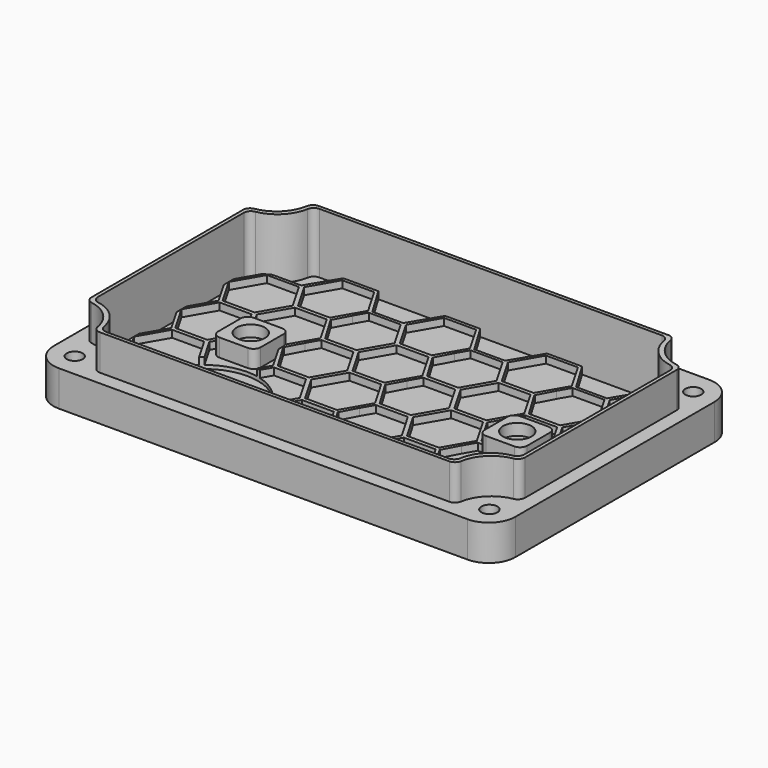
from build123d import *

# Parameters (mm, degrees)
PAD003_DEPTH              = 10
POCKET005_DEPTH           = 7
HOLE_D                    = 4.5
HOLE_CBORE_D              = 10
HOLE_CBORE_DEPTH          = 5.2
PAD004_DEPTH              = 10
PAD_DEPTH                 = 2
PAD_LINEARPATTERN_2_DEPTH = 2
PAD_LINEARPATTERN_3_DEPTH = 2
PAD_LINEARPATTERN_4_DEPTH = 2
LINEARPATTERN001_COUNT    = 4
LINEARPATTERN001_PITCH    = 16.666667
SKETCH014_R               = 6.05
HOLE001_DEPTH             = 25
PAD005_DEPTH              = 5
POCKET007_DEPTH           = 3
HOLE002_D                 = 4.5
HOLE002_DEPTH             = 8
HOLE002_CBORE_D           = 8
HOLE002_CBORE_DEPTH       = 3.2
HOLE002_TIPS_R            = 2.25
SKETCH_R                  = 15
POCKET_DEPTH              = 3


with BuildPart() as part:
    # Sketch011 (on ShapeBinder) → Pad003 (new body)
    with BuildSketch(Plane(origin=(0, 0, 0), x_dir=(1, 0, 0), z_dir=(0, 0, -1))):
        with BuildLine():
            Line((7.5, 0), (122.5, 0))
            ThreePointArc((130, -7.5), (127.803301, -2.196699), (122.5, 0))
            Line((130, -7.5), (130, -77.5))
            ThreePointArc((122.5, -85), (127.803301, -82.803301), (130, -77.5))
            Line((122.5, -85), (7.5, -85))
            ThreePointArc((0, -77.5), (2.196699, -82.803301), (7.5, -85))
            Line((0, -77.5), (0, -7.5))
            ThreePointArc((7.5, 0), (2.196699, -2.196699), (0, -7.5))
        make_face()
    extrude(amount=PAD003_DEPTH)

    # Sketch010 (on Face1 of ShapeBinder) → Pocket005 (cut)
    with BuildSketch(Plane(origin=(0, 0, 0), x_dir=(1, 0, 0), z_dir=(0, 0, -1))):
        with BuildLine():
            ThreePointArc((14.860133, -78.333333), (12.071068, -72.928932), (6.666667, -70.139867))
            ThreePointArc((5, -68.16784), (5.472475, -69.458835), (6.666667, -70.139867))
            Line((5, -16.83216), (5, -68.16784))
            ThreePointArc((6.666667, -14.860133), (5.472475, -15.541165), (5, -16.83216))
            ThreePointArc((6.666667, -14.860133), (12.071068, -12.071068), (14.860133, -6.666667))
            ThreePointArc((16.83216, -5), (15.541165, -5.472475), (14.860133, -6.666667))
            Line((113.16784, -5), (16.83216, -5))
            ThreePointArc((115.139867, -6.666667), (114.458835, -5.472475), (113.16784, -5))
            ThreePointArc((115.139867, -6.666667), (117.928932, -12.071068), (123.333333, -14.860133))
            ThreePointArc((125, -16.83216), (124.527525, -15.541165), (123.333333, -14.860133))
            Line((125, -68.16784), (125, -16.83216))
            ThreePointArc((123.333333, -70.139867), (124.527525, -69.458835), (125, -68.16784))
            ThreePointArc((123.333333, -70.139867), (117.928932, -72.928932), (115.139867, -78.333333))
            ThreePointArc((113.16784, -80), (114.458835, -79.527525), (115.139867, -78.333333))
            Line((16.83216, -80), (113.16784, -80))
            ThreePointArc((14.860133, -78.333333), (15.541165, -79.527525), (16.83216, -80))
        make_face()
    extrude(amount=POCKET005_DEPTH, mode=Mode.SUBTRACT)

    # Hole (through all)
    with Locations(Plane(origin=(0, 0, -10), x_dir=(1, 0, 0), z_dir=(0, 0, -1))):
        with Locations((6.651462, -6.651482), (123.348538, -6.651482), (123.348538, -78.348518), (6.651462, -78.348518)):
            CounterBoreHole(HOLE_D / 2, HOLE_CBORE_D / 2, HOLE_CBORE_DEPTH)

    # Sketch013 (on Face1 of ShapeBinder) → Pad004 (join)
    with BuildSketch(Plane(origin=(0, 0, 0), x_dir=(1, 0, 0), z_dir=(0, 0, -1))):
        with BuildLine():
            ThreePointArc((13.860133, -79.333333), (11.071068, -73.928932), (5.666667, -71.139867))
            ThreePointArc((4, -69.16784), (4.472475, -70.458835), (5.666667, -71.139867))
            Line((4, -15.83216), (4, -69.16784))
            ThreePointArc((5.666667, -13.860133), (4.472475, -14.541165), (4, -15.83216))
            ThreePointArc((5.666667, -13.860133), (11.071068, -11.071068), (13.860133, -5.666667))
            ThreePointArc((15.83216, -4), (14.541165, -4.472475), (13.860133, -5.666667))
            Line((114.16784, -4), (15.83216, -4))
            ThreePointArc((116.139867, -5.666667), (115.458835, -4.472475), (114.16784, -4))
            ThreePointArc((116.139867, -5.666667), (118.928932, -11.071068), (124.333333, -13.860133))
            ThreePointArc((126, -15.83216), (125.527525, -14.541165), (124.333333, -13.860133))
            Line((126, -69.16784), (126, -15.83216))
            ThreePointArc((124.333333, -71.139867), (125.527525, -70.458835), (126, -69.16784))
            ThreePointArc((124.333333, -71.139867), (118.928932, -73.928932), (116.139867, -79.333333))
            ThreePointArc((114.16784, -81), (115.458835, -80.527525), (116.139867, -79.333333))
            Line((15.83216, -81), (114.16784, -81))
            ThreePointArc((13.860133, -79.333333), (14.541165, -80.527525), (15.83216, -81))
        make_face()
        with BuildLine():
            ThreePointArc((14.860133, -78.333333), (12.071068, -72.928932), (6.666667, -70.139867))
            ThreePointArc((5, -68.16784), (5.472475, -69.458835), (6.666667, -70.139867))
            Line((5, -16.83216), (5, -68.16784))
            ThreePointArc((6.666667, -14.860133), (5.472475, -15.541165), (5, -16.83216))
            ThreePointArc((6.666667, -14.860133), (12.071068, -12.071068), (14.860133, -6.666667))
            ThreePointArc((16.83216, -5), (15.541165, -5.472475), (14.860133, -6.666667))
            Line((113.16784, -5), (16.83216, -5))
            ThreePointArc((115.139867, -6.666667), (114.458835, -5.472475), (113.16784, -5))
            ThreePointArc((115.139867, -6.666667), (117.928932, -12.071068), (123.333333, -14.860133))
            ThreePointArc((125, -16.83216), (124.527525, -15.541165), (123.333333, -14.860133))
            Line((125, -68.16784), (125, -16.83216))
            ThreePointArc((123.333333, -70.139867), (124.527525, -69.458835), (125, -68.16784))
            ThreePointArc((123.333333, -70.139867), (117.928932, -72.928932), (115.139867, -78.333333))
            ThreePointArc((113.16784, -80), (114.458835, -79.527525), (115.139867, -78.333333))
            Line((16.83216, -80), (113.16784, -80))
            ThreePointArc((14.860133, -78.333333), (15.541165, -79.527525), (16.83216, -80))
        make_face(mode=Mode.SUBTRACT)
    extrude(amount=-PAD004_DEPTH)

    # Sketch056 (on Face27 of Pocket005) → Pad (join)
    with BuildSketch(Plane.XY.offset(-7)):
        Polygon((18.484886, 71.555635), (9, 71.555635), (4, 62.895381), (9, 54.235127), (19, 54.235127), (23.999938, 62.860274), (33.850199, 62.860274), (38.478193, 71.555635), (33.40667, 80), (23.556409, 80), align=None)
        Polygon((5, 62.895381), (9.5, 55.101153), (18.5, 55.101153), (23, 62.895381), (18.5, 70.68961), (9.5, 70.68961), align=None, mode=Mode.SUBTRACT)
        Polygon((19.48154, 71.296949), (23.98154, 63.502721), (32.98154, 63.502721), (37.48154, 71.296949), (32.98154, 79.091178), (23.98154, 79.091178), align=None, mode=Mode.SUBTRACT)
    pad = extrude(amount=PAD_DEPTH)

    # Sketch056 LinearPattern 2 → Pad LinearPattern 2 (add)
    with BuildSketch(Plane(origin=(28.666667, 0, -7), x_dir=(1, 0, 0), z_dir=(0, 0, 1))):
        Polygon((18.484886, 71.555635), (9, 71.555635), (4, 62.895381), (9, 54.235127), (19, 54.235127), (23.999938, 62.860274), (33.850199, 62.860274), (38.478193, 71.555635), (33.40667, 80), (23.556409, 80), align=None)
        Polygon((5, 62.895381), (9.5, 55.101153), (18.5, 55.101153), (23, 62.895381), (18.5, 70.68961), (9.5, 70.68961), align=None, mode=Mode.SUBTRACT)
        Polygon((19.48154, 71.296949), (23.98154, 63.502721), (32.98154, 63.502721), (37.48154, 71.296949), (32.98154, 79.091178), (23.98154, 79.091178), align=None, mode=Mode.SUBTRACT)
    pad_linearpattern_2 = extrude(amount=PAD_LINEARPATTERN_2_DEPTH)

    # Sketch056 LinearPattern 3 → Pad LinearPattern 3 (add)
    with BuildSketch(Plane(origin=(57.333333, 0, -7), x_dir=(1, 0, 0), z_dir=(0, 0, 1))):
        Polygon((18.484886, 71.555635), (9, 71.555635), (4, 62.895381), (9, 54.235127), (19, 54.235127), (23.999938, 62.860274), (33.850199, 62.860274), (38.478193, 71.555635), (33.40667, 80), (23.556409, 80), align=None)
        Polygon((5, 62.895381), (9.5, 55.101153), (18.5, 55.101153), (23, 62.895381), (18.5, 70.68961), (9.5, 70.68961), align=None, mode=Mode.SUBTRACT)
        Polygon((19.48154, 71.296949), (23.98154, 63.502721), (32.98154, 63.502721), (37.48154, 71.296949), (32.98154, 79.091178), (23.98154, 79.091178), align=None, mode=Mode.SUBTRACT)
    pad_linearpattern_3 = extrude(amount=PAD_LINEARPATTERN_3_DEPTH)

    # Sketch056 LinearPattern 4 → Pad LinearPattern 4 (add)
    with BuildSketch(Plane(origin=(86, 0, -7), x_dir=(1, 0, 0), z_dir=(0, 0, 1))):
        Polygon((18.484886, 71.555635), (9, 71.555635), (4, 62.895381), (9, 54.235127), (19, 54.235127), (23.999938, 62.860274), (33.850199, 62.860274), (38.478193, 71.555635), (33.40667, 80), (23.556409, 80), align=None)
        Polygon((5, 62.895381), (9.5, 55.101153), (18.5, 55.101153), (23, 62.895381), (18.5, 70.68961), (9.5, 70.68961), align=None, mode=Mode.SUBTRACT)
        Polygon((19.48154, 71.296949), (23.98154, 63.502721), (32.98154, 63.502721), (37.48154, 71.296949), (32.98154, 79.091178), (23.98154, 79.091178), align=None, mode=Mode.SUBTRACT)
    pad_linearpattern_4 = extrude(amount=PAD_LINEARPATTERN_4_DEPTH)

    # LinearPattern001: Pad, Pad LinearPattern 2, Pad LinearPattern 3, Pad LinearPattern 4 ×4
    with Locations(*[(0, -i * LINEARPATTERN001_PITCH, 0) for i in range(1, LINEARPATTERN001_COUNT)]):
        add(pad)
        add(pad_linearpattern_2)
        add(pad_linearpattern_3)
        add(pad_linearpattern_4)

    # Sketch014 (on Face72 of Pad004) → Hole001 (cut)
    with BuildSketch(Plane.XY.offset(-7)):
        with Locations((32.5, 20)):
            Circle(SKETCH014_R)
    extrude(amount=-HOLE001_DEPTH, mode=Mode.SUBTRACT)

    # Sketch015 (on Face27 of Pocket005) → Pad005 (join)
    with BuildSketch(Plane.XY.offset(-7)):
        with BuildLine():
            ThreePointArc((23.5, 48.5), (22.085786, 47.914214), (21.5, 46.5))
            Line((21.5, 38.5), (21.5, 46.5))
            ThreePointArc((21.5, 38.5), (22.085786, 37.085786), (23.5, 36.5))
            Line((31.5, 36.5), (23.5, 36.5))
            ThreePointArc((31.5, 36.5), (32.914214, 37.085786), (33.5, 38.5))
            Line((33.5, 46.5), (33.5, 38.5))
            ThreePointArc((33.5, 46.5), (32.914214, 47.914214), (31.5, 48.5))
            Line((23.5, 48.5), (31.5, 48.5))
        make_face()
        with BuildLine():
            ThreePointArc((98.5, 48.5), (97.085786, 47.914214), (96.5, 46.5))
            Line((96.5, 38.5), (96.5, 46.5))
            ThreePointArc((96.5, 38.5), (97.085786, 37.085786), (98.5, 36.5))
            Line((106.5, 36.5), (98.5, 36.5))
            ThreePointArc((106.5, 36.5), (107.914214, 37.085786), (108.5, 38.5))
            Line((108.5, 46.5), (108.5, 38.5))
            ThreePointArc((108.5, 46.5), (107.914214, 47.914214), (106.5, 48.5))
            Line((98.5, 48.5), (106.5, 48.5))
        make_face()
    extrude(amount=PAD005_DEPTH)

    # Sketch017 (on Face352 of Pad005) → Pocket007 (cut)
    with BuildSketch(Plane(origin=(0, 0, -10), x_dir=(1, 0, 0), z_dir=(0, 0, -1))):
        with BuildLine():
            ThreePointArc((24.5, -37.5), (23.085786, -38.085786), (22.5, -39.5))
            Line((22.5, -45.5), (22.5, -39.5))
            ThreePointArc((22.5, -45.5), (23.085786, -46.914214), (24.5, -47.5))
            Line((30.5, -47.5), (24.5, -47.5))
            ThreePointArc((30.5, -47.5), (31.914214, -46.914214), (32.5, -45.5))
            Line((32.5, -39.5), (32.5, -45.5))
            ThreePointArc((32.5, -39.5), (31.914214, -38.085786), (30.5, -37.5))
            Line((24.5, -37.5), (30.5, -37.5))
        make_face()
        with BuildLine():
            ThreePointArc((99.5, -37.5), (98.085786, -38.085786), (97.5, -39.5))
            Line((97.5, -45.5), (97.5, -39.5))
            ThreePointArc((97.5, -45.5), (98.085786, -46.914214), (99.5, -47.5))
            Line((105.5, -47.5), (99.5, -47.5))
            ThreePointArc((105.5, -47.5), (106.914214, -46.914214), (107.5, -45.5))
            Line((107.5, -39.5), (107.5, -45.5))
            ThreePointArc((107.5, -39.5), (106.914214, -38.085786), (105.5, -37.5))
            Line((99.5, -37.5), (105.5, -37.5))
        make_face()
    extrude(amount=-POCKET007_DEPTH, mode=Mode.SUBTRACT)

    # Hole002
    with Locations(Plane.XY.offset(-2)):
        with Locations((102.5, 42.5), (27.5, 42.5)):
            CounterBoreHole(HOLE002_D / 2, HOLE002_CBORE_D / 2, HOLE002_CBORE_DEPTH, depth=HOLE002_DEPTH)

    # Hole002 tips → Hole002 tip 1 section 0
    with BuildSketch(Plane.XY.offset(-10), mode=Mode.PRIVATE) as hole002_tip_1_s0:
        with Locations((102.5, 42.5)):
            Circle(HOLE002_TIPS_R)
    loft([hole002_tip_1_s0.sketch, Vertex(102.5, 42.5, -11.351936)], mode=Mode.SUBTRACT)

    # Hole002 tips → Hole002 tip 2 section 0
    with BuildSketch(Plane.XY.offset(-10), mode=Mode.PRIVATE) as hole002_tip_2_s0:
        with Locations((27.5, 42.5)):
            Circle(HOLE002_TIPS_R)
    loft([hole002_tip_2_s0.sketch, Vertex(27.5, 42.5, -11.351936)], mode=Mode.SUBTRACT)

    # Sketch (on Face4 of Hole002) → Pocket (cut)
    with BuildSketch(Plane.XY.offset(-5)):
        with Locations((32.5, 20)):
            Circle(SKETCH_R)
    extrude(amount=-POCKET_DEPTH, mode=Mode.SUBTRACT)


solid = part.part
